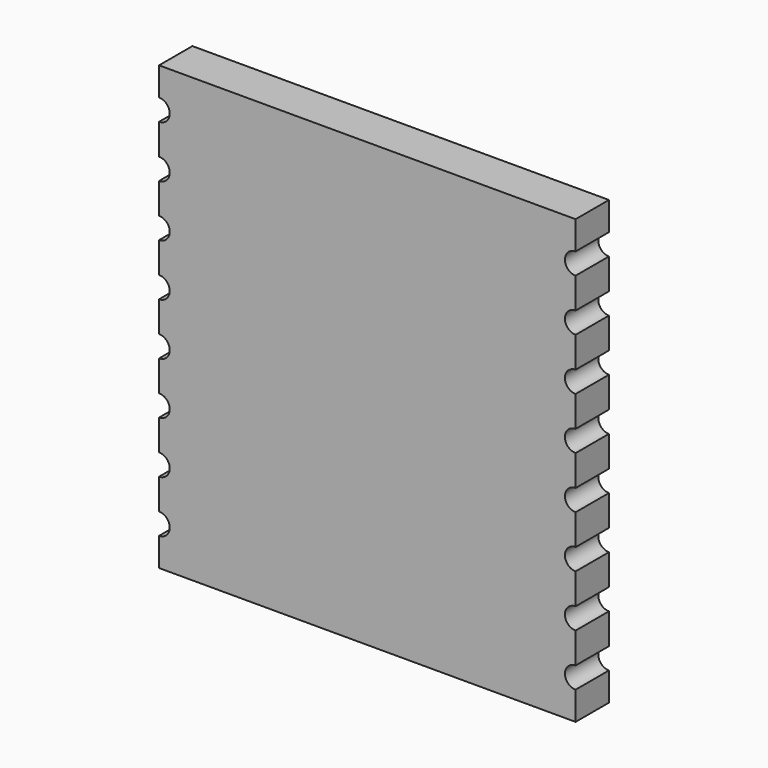
from build123d import *

# Parameters (mm, degrees)
SKETCH_W                          = 16
SKETCH_H                          = 17
PAD_DEPTH                         = 1.6
SKETCH002_R                       = 0.41
POCKET_DEPTH                      = 48.401
POCKET_DEPTH_BACK                 = 46.801
SKETCH002_LINEARPATTERN_2_R       = 0.41
POCKET_LINEARPATTERN_2_DEPTH      = 48.401
POCKET_LINEARPATTERN_2_DEPTH_BACK = 46.801
SKETCH002_LINEARPATTERN_3_R       = 0.41
POCKET_LINEARPATTERN_3_DEPTH      = 48.401
POCKET_LINEARPATTERN_3_DEPTH_BACK = 46.801
SKETCH002_LINEARPATTERN_4_R       = 0.41
POCKET_LINEARPATTERN_4_DEPTH      = 48.401
POCKET_LINEARPATTERN_4_DEPTH_BACK = 46.801
SKETCH002_LINEARPATTERN_5_R       = 0.41
POCKET_LINEARPATTERN_5_DEPTH      = 48.401
POCKET_LINEARPATTERN_5_DEPTH_BACK = 46.801
SKETCH002_LINEARPATTERN_6_R       = 0.41
POCKET_LINEARPATTERN_6_DEPTH      = 48.401
POCKET_LINEARPATTERN_6_DEPTH_BACK = 46.801
SKETCH002_LINEARPATTERN_7_R       = 0.41
POCKET_LINEARPATTERN_7_DEPTH      = 48.401
POCKET_LINEARPATTERN_7_DEPTH_BACK = 46.801
SKETCH002_LINEARPATTERN_8_R       = 0.41
POCKET_LINEARPATTERN_8_DEPTH      = 48.401
POCKET_LINEARPATTERN_8_DEPTH_BACK = 46.801


with BuildPart() as part:
    # Sketch → Pad (new body)
    with BuildSketch(Plane.XZ):
        Rectangle(SKETCH_W, SKETCH_H)
    extrude(amount=PAD_DEPTH)

    # Sketch002 → Pocket (cut, two sides)
    with BuildSketch(Plane.XZ.offset(1.6)) as pocket_sk:
        with Locations((-8, 7)):
            Circle(SKETCH002_R)
    pocket = extrude(amount=-POCKET_DEPTH, mode=Mode.SUBTRACT) + extrude(pocket_sk.sketch, amount=POCKET_DEPTH_BACK, mode=Mode.SUBTRACT)

    # Sketch002 LinearPattern 2 → Pocket LinearPattern 2 (cut, two sides)
    with BuildSketch(Plane(origin=(0, -1.6, -2), x_dir=(1, 0, 0), z_dir=(0, -1, 0))) as pocket_linearpattern_2_sk:
        with Locations((-8, 7)):
            Circle(SKETCH002_LINEARPATTERN_2_R)
    pocket_linearpattern_2 = extrude(amount=-POCKET_LINEARPATTERN_2_DEPTH, mode=Mode.SUBTRACT) + extrude(pocket_linearpattern_2_sk.sketch, amount=POCKET_LINEARPATTERN_2_DEPTH_BACK, mode=Mode.SUBTRACT)

    # Sketch002 LinearPattern 3 → Pocket LinearPattern 3 (cut, two sides)
    with BuildSketch(Plane(origin=(0, -1.6, -4), x_dir=(1, 0, 0), z_dir=(0, -1, 0))) as pocket_linearpattern_3_sk:
        with Locations((-8, 7)):
            Circle(SKETCH002_LINEARPATTERN_3_R)
    pocket_linearpattern_3 = extrude(amount=-POCKET_LINEARPATTERN_3_DEPTH, mode=Mode.SUBTRACT) + extrude(pocket_linearpattern_3_sk.sketch, amount=POCKET_LINEARPATTERN_3_DEPTH_BACK, mode=Mode.SUBTRACT)

    # Sketch002 LinearPattern 4 → Pocket LinearPattern 4 (cut, two sides)
    with BuildSketch(Plane(origin=(0, -1.6, -6), x_dir=(1, 0, 0), z_dir=(0, -1, 0))) as pocket_linearpattern_4_sk:
        with Locations((-8, 7)):
            Circle(SKETCH002_LINEARPATTERN_4_R)
    pocket_linearpattern_4 = extrude(amount=-POCKET_LINEARPATTERN_4_DEPTH, mode=Mode.SUBTRACT) + extrude(pocket_linearpattern_4_sk.sketch, amount=POCKET_LINEARPATTERN_4_DEPTH_BACK, mode=Mode.SUBTRACT)

    # Sketch002 LinearPattern 5 → Pocket LinearPattern 5 (cut, two sides)
    with BuildSketch(Plane(origin=(0, -1.6, -8), x_dir=(1, 0, 0), z_dir=(0, -1, 0))) as pocket_linearpattern_5_sk:
        with Locations((-8, 7)):
            Circle(SKETCH002_LINEARPATTERN_5_R)
    pocket_linearpattern_5 = extrude(amount=-POCKET_LINEARPATTERN_5_DEPTH, mode=Mode.SUBTRACT) + extrude(pocket_linearpattern_5_sk.sketch, amount=POCKET_LINEARPATTERN_5_DEPTH_BACK, mode=Mode.SUBTRACT)

    # Sketch002 LinearPattern 6 → Pocket LinearPattern 6 (cut, two sides)
    with BuildSketch(Plane(origin=(0, -1.6, -10), x_dir=(1, 0, 0), z_dir=(0, -1, 0))) as pocket_linearpattern_6_sk:
        with Locations((-8, 7)):
            Circle(SKETCH002_LINEARPATTERN_6_R)
    pocket_linearpattern_6 = extrude(amount=-POCKET_LINEARPATTERN_6_DEPTH, mode=Mode.SUBTRACT) + extrude(pocket_linearpattern_6_sk.sketch, amount=POCKET_LINEARPATTERN_6_DEPTH_BACK, mode=Mode.SUBTRACT)

    # Sketch002 LinearPattern 7 → Pocket LinearPattern 7 (cut, two sides)
    with BuildSketch(Plane(origin=(0, -1.6, -12), x_dir=(1, 0, 0), z_dir=(0, -1, 0))) as pocket_linearpattern_7_sk:
        with Locations((-8, 7)):
            Circle(SKETCH002_LINEARPATTERN_7_R)
    pocket_linearpattern_7 = extrude(amount=-POCKET_LINEARPATTERN_7_DEPTH, mode=Mode.SUBTRACT) + extrude(pocket_linearpattern_7_sk.sketch, amount=POCKET_LINEARPATTERN_7_DEPTH_BACK, mode=Mode.SUBTRACT)

    # Sketch002 LinearPattern 8 → Pocket LinearPattern 8 (cut, two sides)
    with BuildSketch(Plane(origin=(0, -1.6, -14), x_dir=(1, 0, 0), z_dir=(0, -1, 0))) as pocket_linearpattern_8_sk:
        with Locations((-8, 7)):
            Circle(SKETCH002_LINEARPATTERN_8_R)
    pocket_linearpattern_8 = extrude(amount=-POCKET_LINEARPATTERN_8_DEPTH, mode=Mode.SUBTRACT) + extrude(pocket_linearpattern_8_sk.sketch, amount=POCKET_LINEARPATTERN_8_DEPTH_BACK, mode=Mode.SUBTRACT)

    # Mirrored: Pocket, Pocket LinearPattern 2, Pocket LinearPattern 3, Pocket LinearPattern 4, Pocket LinearPattern 5, Pocket LinearPattern 6, Pocket LinearPattern 7, Pocket LinearPattern 8 across YZ
    add(pocket.mirror(Plane.YZ), mode=Mode.SUBTRACT)
    add(pocket_linearpattern_2.mirror(Plane.YZ), mode=Mode.SUBTRACT)
    add(pocket_linearpattern_3.mirror(Plane.YZ), mode=Mode.SUBTRACT)
    add(pocket_linearpattern_4.mirror(Plane.YZ), mode=Mode.SUBTRACT)
    add(pocket_linearpattern_5.mirror(Plane.YZ), mode=Mode.SUBTRACT)
    add(pocket_linearpattern_6.mirror(Plane.YZ), mode=Mode.SUBTRACT)
    add(pocket_linearpattern_7.mirror(Plane.YZ), mode=Mode.SUBTRACT)
    add(pocket_linearpattern_8.mirror(Plane.YZ), mode=Mode.SUBTRACT)


solid = part.part
